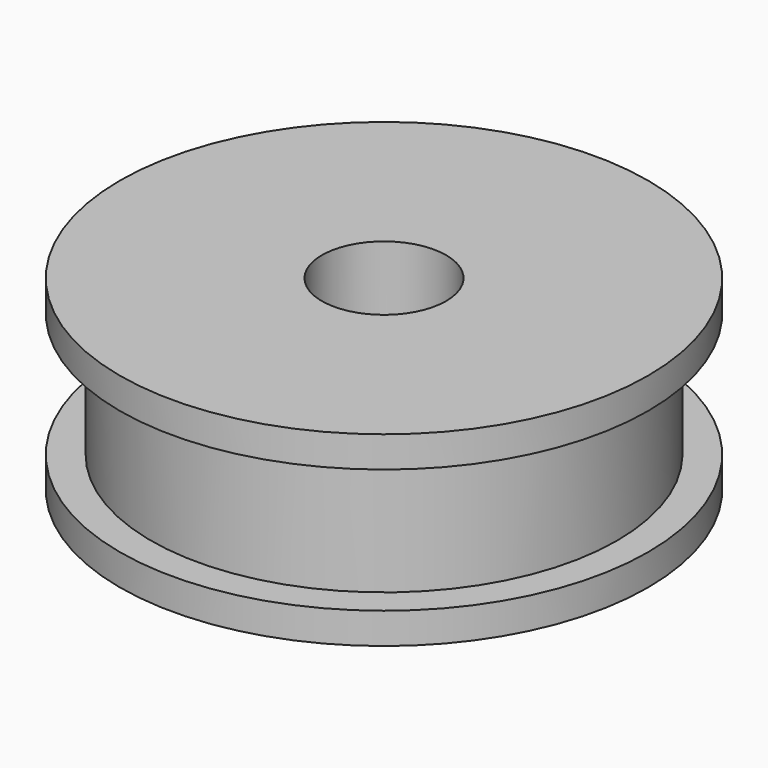
from build123d import *

# Parameters (mm, degrees)
F0_R     = 15
F0_R_2   = 4
F1_DEPTH = 12
F0_R_3   = 17
F2_DEPTH = 2
F3_R     = 17
F3_R_2   = 15
F4_DEPTH = 2


with BuildPart() as f1:
    # F0 (on Top) → F1 (new body)
    with BuildSketch(Plane.XY):
        Circle(F0_R)
        Circle(F0_R_2, mode=Mode.SUBTRACT)
    extrude(amount=F1_DEPTH)

    # F0 (on Top) → F2 (join)
    with BuildSketch(Plane.XY):
        Circle(F0_R_3)
        Circle(F0_R, mode=Mode.SUBTRACT)
    extrude(amount=F2_DEPTH)

    # F3 (on face) → F4 (join)
    with BuildSketch(Plane.XY.offset(12)):
        Circle(F3_R)
        Circle(F3_R_2, mode=Mode.SUBTRACT)
    extrude(amount=-F4_DEPTH)


solid = f1.part
